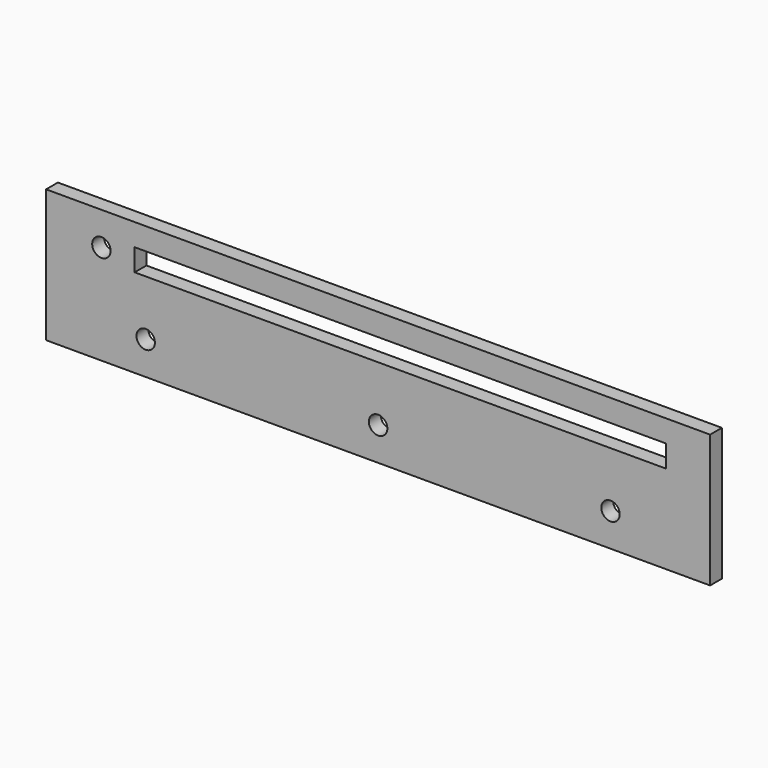
from build123d import *

# Parameters (mm, degrees)
F0_W     = 84
F0_H     = 9
F0_R     = 1.25
F0_W_2   = 72
F0_H_2   = 3
F1_DEPTH = 2


with BuildPart() as f1:
    # F0 (on Front) → F1 (new body)
    with BuildSketch(Plane.XZ):
        Polygon((-42, -4.5), (-42, 4.5), (-45, 4.5), (-45, -13.5), (-42, -13.5), align=None)
        Rectangle(F0_W, F0_H)
        with Locations((-37.5, 0)):
            Circle(F0_R, mode=Mode.SUBTRACT)
        with Locations((3, 0)):
            Rectangle(F0_W_2, F0_H_2, mode=Mode.SUBTRACT)
        Polygon((45, 4.5), (42, 4.5), (42, -4.5), (42, -13.5), (45, -13.5), align=None)
        with Locations((0, -9)):
            Rectangle(F0_W, F0_H)
        with Locations((-31.5, -9)):
            Circle(F0_R, mode=Mode.SUBTRACT)
        with Locations((0, -9)):
            Circle(F0_R, mode=Mode.SUBTRACT)
        with Locations((31.5, -9)):
            Circle(F0_R, mode=Mode.SUBTRACT)
    extrude(amount=F1_DEPTH)


solid = f1.part
